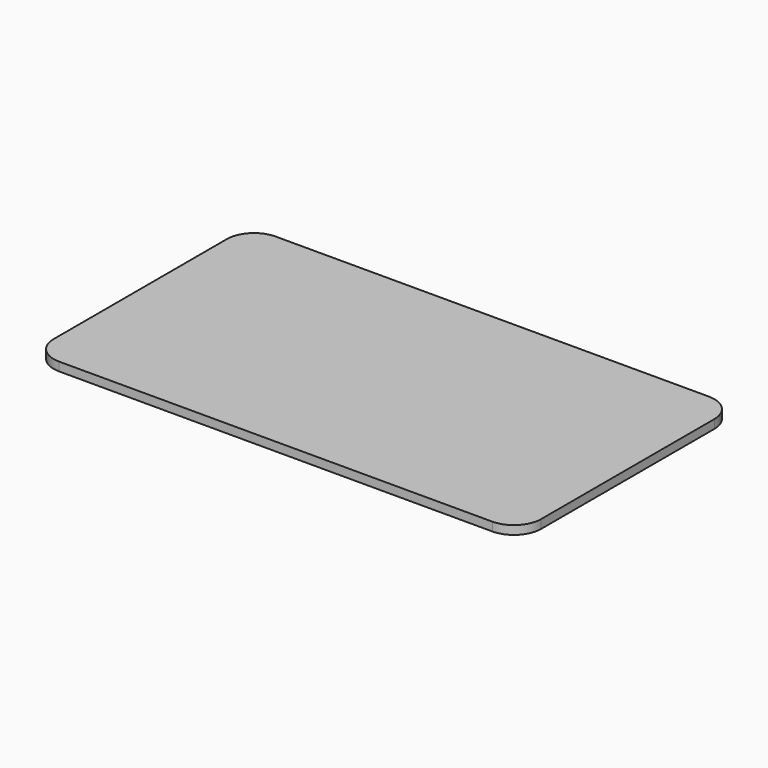
from build123d import *

# Parameters (mm, degrees)
PAD_DEPTH = 1.6


with BuildPart() as part:
    # Sketch → Pad (new body)
    with BuildSketch(Plane.XY):
        with BuildLine():
            Line((-40, 25), (40, 25))
            ThreePointArc((45, 20), (43.535534, 23.535534), (40, 25))
            Line((45, 20), (45, -20))
            ThreePointArc((40, -25), (43.535534, -23.535534), (45, -20))
            Line((40, -25), (-40, -25))
            ThreePointArc((-45, -20), (-43.535534, -23.535534), (-40, -25))
            Line((-45, -20), (-45, 20))
            ThreePointArc((-40, 25), (-43.535534, 23.535534), (-45, 20))
        make_face()
    extrude(amount=PAD_DEPTH)


solid = part.part
